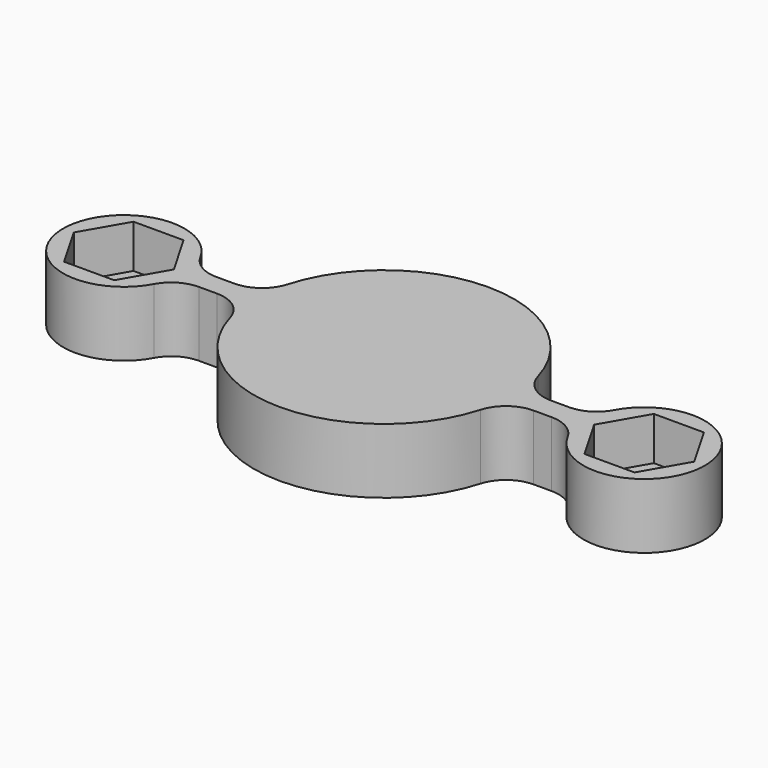
from build123d import *

# Parameters (mm, degrees)
F1_DEPTH = 4.7625
F2_R     = 5.08
F4_DEPTH = 6.35
F5_R     = 3.429
F6_DEPTH = 9.526


with BuildPart() as f1:
    # F0 (on Top) → F1 (new body, symmetric)
    with BuildSketch(Plane.XY):
        with BuildLine():
            Line((-29.352889, -1.5875), (-18.983739, -1.5875))
            ThreePointArc((-18.983739, -1.5875), (0, -19.05), (18.983739, -1.5875))
            Line((18.983739, -1.5875), (29.352889, -1.5875))
            ThreePointArc((29.352889, -1.5875), (46.99, 0), (29.352889, 1.5875))
            Line((29.352889, 1.5875), (18.983739, 1.5875))
            ThreePointArc((18.983739, 1.5875), (0, 19.05), (-18.983739, 1.5875))
            Line((-18.983739, 1.5875), (-29.352889, 1.5875))
            ThreePointArc((-29.352889, 1.5875), (-46.99, 0), (-29.352889, -1.5875))
        make_face()
    extrude(amount=F1_DEPTH, both=True)

    # F2
    f2_edges = [f1.edges().sort_by_distance(p)[0] for p in [
        (-29.352889, 1.5875, 0),
        (18.983739, 1.5875, 0),
        (-18.983739, 1.5875, 0),
        (29.352889, 1.5875, 0),
        (29.352889, -1.5875, 0),
        (-18.983739, -1.5875, 0),
        (-29.352889, -1.5875, 0),
        (18.983739, -1.5875, 0),
    ]]
    fillet(f2_edges, radius=F2_R)

    # F3 (on face) → F4 (cut)
    with BuildSketch(Plane.XY.offset(4.7625)):
        Polygon((-30.767652, 0), (-34.433826, 6.35), (-41.766174, 6.35), (-45.432348, 0), (-41.766174, -6.35), (-34.433826, -6.35), align=None)
        Polygon((41.766174, -6.35), (45.432348, 0), (41.766174, 6.35), (34.433826, 6.35), (30.767652, 0), (34.433826, -6.35), align=None)
    extrude(amount=-F4_DEPTH, mode=Mode.SUBTRACT)

    # F5 (on face) → F6 (cut, through all)
    with BuildSketch(Plane(origin=(0, 0, -4.7625), x_dir=(1, 0, 0), z_dir=(0, 0, -1))):
        with Locations((-38.1, 0)):
            Circle(F5_R)
        with Locations((38.1, 0)):
            Circle(F5_R)
    extrude(amount=-F6_DEPTH, mode=Mode.SUBTRACT)


solid = f1.part
